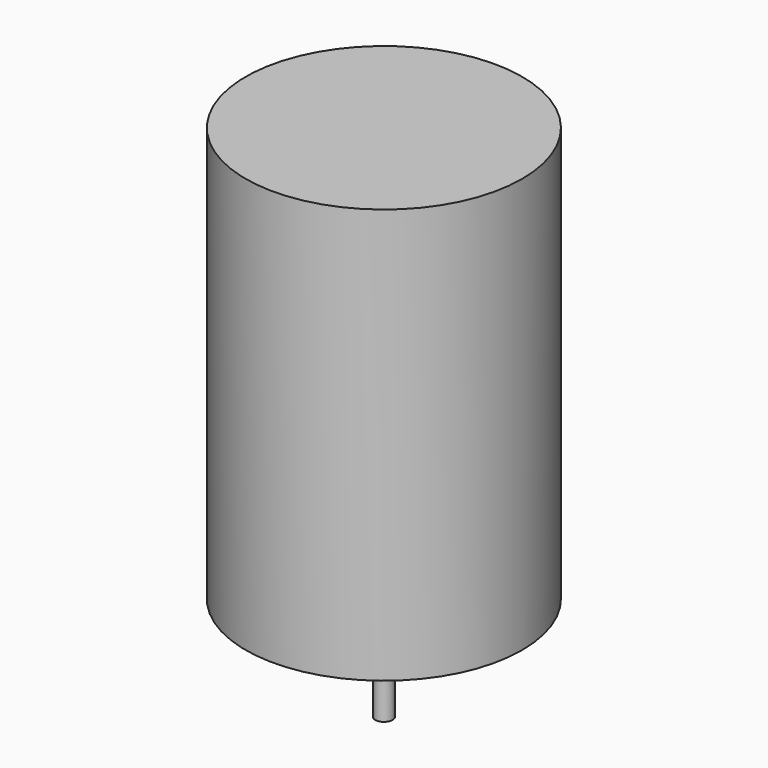
from build123d import *

# Parameters (mm, degrees)
F0_R     = 40
F1_DEPTH = 120
F2_R     = 2.5
F3_DEPTH = 25
F4_DEPTH = 30


with BuildPart() as f1:
    # F0 (on Top) → F1 (new body)
    with BuildSketch(Plane.XY):
        Circle(F0_R)
    extrude(amount=F1_DEPTH)

    # F2 (on face) → F3 (join)
    with BuildSketch(Plane(origin=(0, 0, 0), x_dir=(1, 0, 0), z_dir=(0, 0, -1))):
        Circle(F2_R)
    extrude(amount=F3_DEPTH)

    # F2 (on face) → F4 (join)
    with BuildSketch(Plane(origin=(0, 0, 0), x_dir=(1, 0, 0), z_dir=(0, 0, -1))):
        Circle(F2_R)
    extrude(amount=F4_DEPTH)


solid = f1.part
